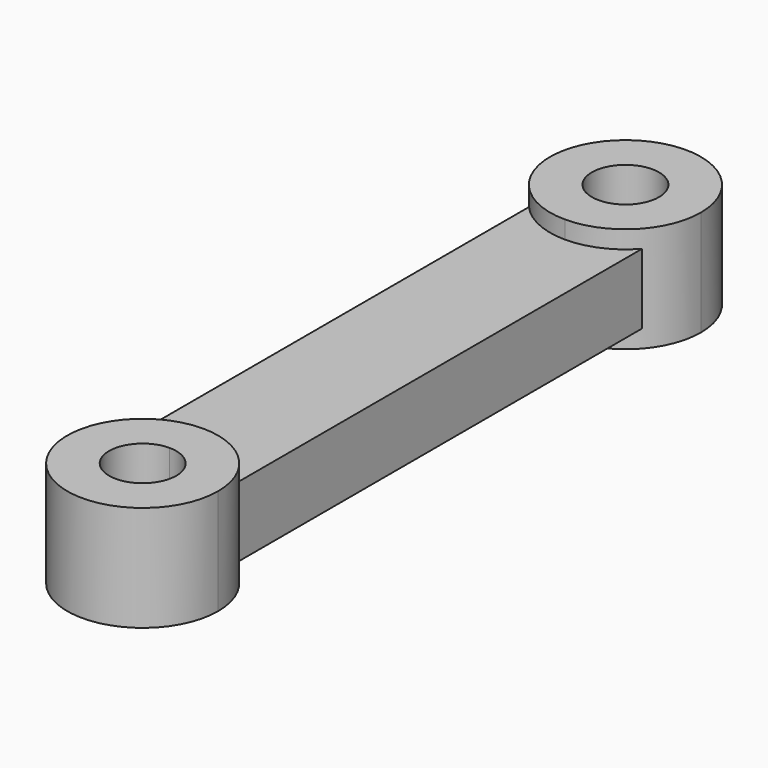
from build123d import *

# Parameters (mm, degrees)
F1_DEPTH = 1.1811
F3_DEPTH = 1.778


with BuildPart() as f1:
    # F0 (on Top) → F1 (new body, symmetric)
    with BuildSketch(Plane.XY):
        with BuildLine():
            Line((0, -7.62), (0, 0))
            Line((0, 0), (0, 7.62))
            ThreePointArc((0, 7.62), (-1.045052, 7.844948), (-1.905, 8.479948))
            Line((-1.905, 8.479948), (-1.905, -8.479948))
            ThreePointArc((-1.905, -8.479948), (-1.045052, -7.844948), (0, -7.62))
        make_face()
        with BuildLine():
            Line((0, 7.62), (0, 0))
            Line((0, 0), (0, -7.62))
            ThreePointArc((0, -7.62), (1.045052, -7.844948), (1.905, -8.479948))
            Line((1.905, -8.479948), (1.905, 8.479948))
            ThreePointArc((1.905, 8.479948), (1.045052, 7.844948), (0, 7.62))
        make_face()
    extrude(amount=F1_DEPTH, both=True)

    # F2 (on Top) → F3 (join, symmetric)
    with BuildSketch(Plane.XY):
        with BuildLine():
            ThreePointArc((1.1303, 10.16), (-0.799243, 10.959243), (0, 9.0297))
            ThreePointArc((0, 9.0297), (0.799243, 9.360757), (1.1303, 10.16))
        make_face()
        with BuildLine():
            ThreePointArc((2.54, 10.16), (-1.796051, 11.956051), (0, 7.62))
            ThreePointArc((0, 7.62), (1.796051, 8.363949), (2.54, 10.16))
        make_face()
        with BuildLine():
            ThreePointArc((1.1303, 10.16), (0.799243, 9.360757), (0, 9.0297))
            ThreePointArc((0, 9.0297), (-0.799243, 10.959243), (1.1303, 10.16))
        make_face(mode=Mode.SUBTRACT)
        with BuildLine():
            ThreePointArc((1.1303, -10.16), (0.799243, -9.360757), (0, -9.0297))
            ThreePointArc((0, -9.0297), (-0.799243, -10.959243), (1.1303, -10.16))
        make_face()
        with BuildLine():
            ThreePointArc((2.54, -10.16), (1.796051, -8.363949), (0, -7.62))
            ThreePointArc((0, -7.62), (-1.796051, -11.956051), (2.54, -10.16))
        make_face()
        with BuildLine():
            ThreePointArc((1.1303, -10.16), (-0.799243, -10.959243), (0, -9.0297))
            ThreePointArc((0, -9.0297), (0.799243, -9.360757), (1.1303, -10.16))
        make_face(mode=Mode.SUBTRACT)
    extrude(amount=F3_DEPTH, both=True)


solid = f1.part
